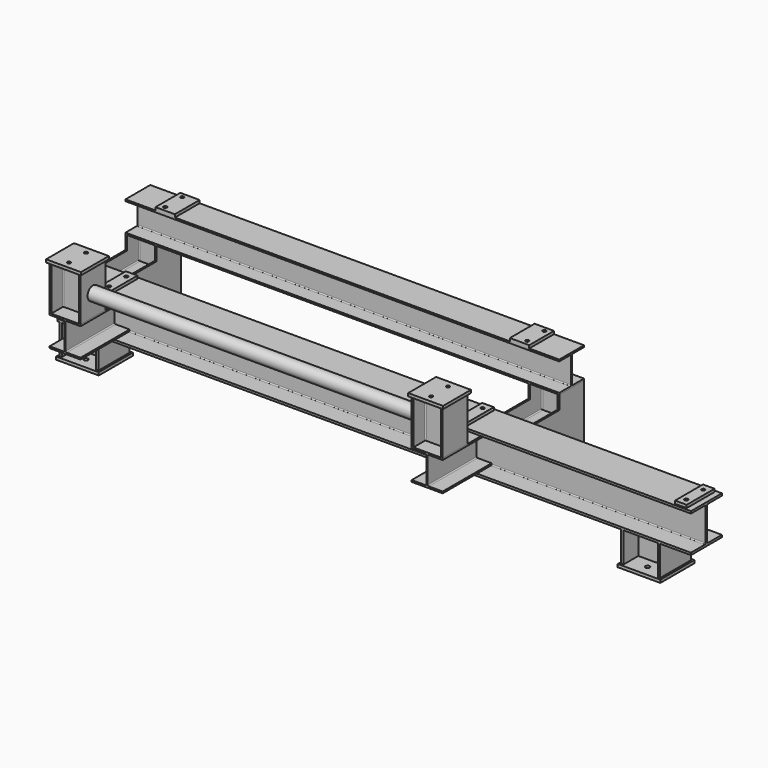
from build123d import *

# Parameters (mm, degrees)
F0_W      = 228.6
F0_H      = 228.6
F0_R      = 14.2875
F0_W_2    = 279.4
F0_H_2    = 279.4
F1_DEPTH  = 19.05
F3_DEPTH  = 504.952
F5_DEPTH  = 2844.8
F6_W      = 127
F6_H      = 203.2
F6_R      = 11.1125
F7_DEPTH  = 19.05
F9_DEPTH  = 482.6
F12_DEPTH = 4152.9
F14_DEPTH = 198.374
F15_W     = 76.2
F15_H     = 228.6
F15_R     = 11.1125
F16_DEPTH = 19.05
F18_DEPTH = 401.574
F20_DEPTH = 292.1
F21_W     = 228.6
F21_H     = 228.6
F21_R     = 11.1125
F22_DEPTH = 19.05
F23_R     = 44.45
F23_R_2   = 38.9636
F24_DEPTH = 2171.7


with BuildPart() as f1:
    # F0 (on Top) → F1 (new body)
    with BuildSketch(Plane.XY):
        with Locations((-1320.8, 241.3)):
            Rectangle(F0_W, F0_H)
        with Locations((-1320.8, 171.45)):
            Circle(F0_R, mode=Mode.SUBTRACT)
        with Locations((-1320.8, 311.15)):
            Circle(F0_R, mode=Mode.SUBTRACT)
        with Locations((1320.8, 241.3)):
            Rectangle(F0_W, F0_H)
        with Locations((1320.8, 171.45)):
            Circle(F0_R, mode=Mode.SUBTRACT)
        with Locations((1320.8, 311.15)):
            Circle(F0_R, mode=Mode.SUBTRACT)
        with Locations((2362.2, -241.3)):
            Rectangle(F0_W_2, F0_H_2)
        with Locations((2362.2, -311.15)):
            Circle(F0_R, mode=Mode.SUBTRACT)
        with Locations((2362.2, -171.45)):
            Circle(F0_R, mode=Mode.SUBTRACT)
        with Locations((-1320.8, -241.3)):
            Rectangle(F0_W_2, F0_H_2)
        with Locations((-1320.8, -311.15)):
            Circle(F0_R, mode=Mode.SUBTRACT)
        with Locations((-1320.8, -171.45)):
            Circle(F0_R, mode=Mode.SUBTRACT)
    extrude(amount=F1_DEPTH)


with BuildPart() as f3:
    # F2 (on face) → F3 (new body)
    with BuildSketch(Plane.XY.offset(19.05)):
        with BuildLine():
            Line((-1411.351, 342.9), (-1422.4, 342.9))
            Line((-1422.4, 342.9), (-1422.4, 139.7))
            Line((-1422.4, 139.7), (-1411.351, 139.7))
            Line((-1411.351, 139.7), (-1411.351, 231.3305))
            ThreePointArc((-1411.351, 231.3305), (-1409.491128, 235.820628), (-1405.001, 237.6805))
            Line((-1405.001, 237.6805), (-1320.8, 237.6805))
            Line((-1320.8, 237.6805), (-1236.599, 237.6805))
            ThreePointArc((-1236.599, 237.6805), (-1232.108872, 235.820628), (-1230.249, 231.3305))
            Line((-1230.249, 231.3305), (-1230.249, 139.7))
            Line((-1230.249, 139.7), (-1219.2, 139.7))
            Line((-1219.2, 139.7), (-1219.2, 342.9))
            Line((-1219.2, 342.9), (-1230.249, 342.9))
            Line((-1230.249, 342.9), (-1230.249, 251.2695))
            ThreePointArc((-1230.249, 251.2695), (-1232.108872, 246.779372), (-1236.599, 244.9195))
            Line((-1236.599, 244.9195), (-1320.8, 244.9195))
            Line((-1320.8, 244.9195), (-1405.001, 244.9195))
            ThreePointArc((-1405.001, 244.9195), (-1409.491128, 246.779372), (-1411.351, 251.2695))
            Line((-1411.351, 251.2695), (-1411.351, 342.9))
        make_face()
        with BuildLine():
            Line((1411.351, 342.9), (1411.351, 251.2695))
            ThreePointArc((1411.351, 251.2695), (1409.491128, 246.779372), (1405.001, 244.9195))
            Line((1405.001, 244.9195), (1320.8, 244.9195))
            Line((1320.8, 244.9195), (1236.599, 244.9195))
            ThreePointArc((1236.599, 244.9195), (1232.108872, 246.779372), (1230.249, 251.2695))
            Line((1230.249, 251.2695), (1230.249, 342.9))
            Line((1230.249, 342.9), (1219.2, 342.9))
            Line((1219.2, 342.9), (1219.2, 139.7))
            Line((1219.2, 139.7), (1230.249, 139.7))
            Line((1230.249, 139.7), (1230.249, 231.3305))
            ThreePointArc((1230.249, 231.3305), (1232.108872, 235.820628), (1236.599, 237.6805))
            Line((1236.599, 237.6805), (1320.8, 237.6805))
            Line((1320.8, 237.6805), (1405.001, 237.6805))
            ThreePointArc((1405.001, 237.6805), (1409.491128, 235.820628), (1411.351, 231.3305))
            Line((1411.351, 231.3305), (1411.351, 139.7))
            Line((1411.351, 139.7), (1422.4, 139.7))
            Line((1422.4, 139.7), (1422.4, 342.9))
            Line((1422.4, 342.9), (1411.351, 342.9))
        make_face()
    extrude(amount=F3_DEPTH)

    # F8 (on face) → F9 (join)
    with BuildSketch(Plane.XZ.offset(-237.6805)):
        with BuildLine():
            Line((-1422.4, 434.848), (-1422.4, 231.648))
            Line((-1422.4, 231.648), (-1411.351, 231.648))
            Line((-1411.351, 231.648), (-1411.351, 328.803))
            ThreePointArc((-1411.351, 328.803), (-1410.979026, 329.701026), (-1410.081, 330.073))
            Line((-1410.081, 330.073), (-1320.8, 330.073))
            Line((-1320.8, 330.073), (-1231.519, 330.073))
            ThreePointArc((-1231.519, 330.073), (-1230.620974, 329.701026), (-1230.249, 328.803))
            Line((-1230.249, 328.803), (-1230.249, 231.648))
            Line((-1230.249, 231.648), (-1219.2, 231.648))
            Line((-1219.2, 231.648), (-1219.2, 434.848))
            Line((-1219.2, 434.848), (-1230.249, 434.848))
            Line((-1230.249, 434.848), (-1230.249, 342.773))
            ThreePointArc((-1230.249, 342.773), (-1232.108872, 338.282872), (-1236.599, 336.423))
            Line((-1236.599, 336.423), (-1320.8, 336.423))
            Line((-1320.8, 336.423), (-1405.001, 336.423))
            ThreePointArc((-1405.001, 336.423), (-1409.491128, 338.282872), (-1411.351, 342.773))
            Line((-1411.351, 342.773), (-1411.351, 434.848))
            Line((-1411.351, 434.848), (-1422.4, 434.848))
        make_face()
        with BuildLine():
            Line((1411.351, 434.848), (1411.351, 342.773))
            ThreePointArc((1411.351, 342.773), (1409.491128, 338.282872), (1405.001, 336.423))
            Line((1405.001, 336.423), (1320.8, 336.423))
            Line((1320.8, 336.423), (1236.599, 336.423))
            ThreePointArc((1236.599, 336.423), (1232.108872, 338.282872), (1230.249, 342.773))
            Line((1230.249, 342.773), (1230.249, 434.848))
            Line((1230.249, 434.848), (1219.2, 434.848))
            Line((1219.2, 434.848), (1219.2, 231.648))
            Line((1219.2, 231.648), (1230.249, 231.648))
            Line((1230.249, 231.648), (1230.249, 328.803))
            ThreePointArc((1230.249, 328.803), (1230.620974, 329.701026), (1231.519, 330.073))
            Line((1231.519, 330.073), (1320.8, 330.073))
            Line((1320.8, 330.073), (1410.081, 330.073))
            ThreePointArc((1410.081, 330.073), (1410.979026, 329.701026), (1411.351, 328.803))
            Line((1411.351, 328.803), (1411.351, 231.648))
            Line((1411.351, 231.648), (1422.4, 231.648))
            Line((1422.4, 231.648), (1422.4, 434.848))
            Line((1422.4, 434.848), (1411.351, 434.848))
        make_face()
    extrude(amount=F9_DEPTH)


with BuildPart() as f5:
    # F4 (on face) → F5 (new body, through all)
    with BuildSketch(Plane.YZ.offset(1422.4)):
        with BuildLine():
            Line((139.7, 535.051), (139.7, 524.002))
            Line((139.7, 524.002), (342.9, 524.002))
            Line((342.9, 524.002), (342.9, 535.051))
            Line((342.9, 535.051), (251.2695, 535.051))
            ThreePointArc((251.2695, 535.051), (246.779372, 536.910872), (244.9195, 541.401))
            Line((244.9195, 541.401), (244.9195, 709.803))
            ThreePointArc((244.9195, 709.803), (246.779372, 714.293128), (251.2695, 716.153))
            Line((251.2695, 716.153), (342.9, 716.153))
            Line((342.9, 716.153), (342.9, 727.202))
            Line((342.9, 727.202), (139.7, 727.202))
            Line((139.7, 727.202), (139.7, 716.153))
            Line((139.7, 716.153), (231.3305, 716.153))
            ThreePointArc((231.3305, 716.153), (235.820628, 714.293128), (237.6805, 709.803))
            Line((237.6805, 709.803), (237.6805, 541.401))
            ThreePointArc((237.6805, 541.401), (235.820628, 536.910872), (231.3305, 535.051))
            Line((231.3305, 535.051), (139.7, 535.051))
        make_face()
    extrude(amount=-F5_DEPTH)

    # F6 (on face) → F7 (join)
    with BuildSketch(Plane.XY.offset(727.202)):
        with Locations((1162.05, 241.3)):
            Rectangle(F6_W, F6_H)
        with Locations((1187.45, 171.45)):
            Circle(F6_R, mode=Mode.SUBTRACT)
        with Locations((1187.45, 311.15)):
            Circle(F6_R, mode=Mode.SUBTRACT)
        with Locations((-1162.05, 241.3)):
            Rectangle(F6_W, F6_H)
        with Locations((-1187.45, 171.45)):
            Circle(F6_R, mode=Mode.SUBTRACT)
        with Locations((-1187.45, 311.15)):
            Circle(F6_R, mode=Mode.SUBTRACT)
    extrude(amount=F7_DEPTH)


with BuildPart() as f12:
    # F11 (on offset) → F12 (new body)
    with BuildSketch(Plane.YZ.offset(2692.4)):
        with BuildLine():
            Line((-368.3, 231.648), (-368.3, 217.424))
            Line((-368.3, 217.424), (-114.3, 217.424))
            Line((-114.3, 217.424), (-114.3, 231.648))
            Line((-114.3, 231.648), (-228.6, 231.648))
            ThreePointArc((-228.6, 231.648), (-233.090128, 233.507872), (-234.95, 237.998))
            Line((-234.95, 237.998), (-234.95, 450.85))
            ThreePointArc((-234.95, 450.85), (-233.090128, 455.340128), (-228.6, 457.2))
            Line((-228.6, 457.2), (-114.3, 457.2))
            Line((-114.3, 457.2), (-114.3, 471.424))
            Line((-114.3, 471.424), (-368.3, 471.424))
            Line((-368.3, 471.424), (-368.3, 457.2))
            Line((-368.3, 457.2), (-254, 457.2))
            ThreePointArc((-254, 457.2), (-249.509872, 455.340128), (-247.65, 450.85))
            Line((-247.65, 450.85), (-247.65, 237.998))
            ThreePointArc((-247.65, 237.998), (-249.509872, 233.507872), (-254, 231.648))
            Line((-254, 231.648), (-368.3, 231.648))
        make_face()
    extrude(amount=-F12_DEPTH)

    # F15 (on face) → F16 (join)
    with BuildSketch(Plane.XY.offset(471.424)):
        with Locations((-1168.4, -241.3)):
            Rectangle(F15_W, F15_H)
        with Locations((-1168.4, -311.15)):
            Circle(F15_R, mode=Mode.SUBTRACT)
        with Locations((-1168.4, -171.45)):
            Circle(F15_R, mode=Mode.SUBTRACT)
        with Locations((1168.4, -241.3)):
            Rectangle(F15_W, F15_H)
        with Locations((1168.4, -311.15)):
            Circle(F15_R, mode=Mode.SUBTRACT)
        with Locations((1168.4, -171.45)):
            Circle(F15_R, mode=Mode.SUBTRACT)
        with Locations((2616.2, -241.3)):
            Rectangle(F15_W, F15_H)
        with Locations((2616.2, -311.15)):
            Circle(F15_R, mode=Mode.SUBTRACT)
        with Locations((2616.2, -171.45)):
            Circle(F15_R, mode=Mode.SUBTRACT)
    extrude(amount=F16_DEPTH)


with BuildPart() as f14:
    # F13 (on face) → F14 (new body)
    with BuildSketch(Plane.XY.offset(19.05)):
        Polygon((-1433.576, -114.3), (-1447.8, -114.3), (-1447.8, -368.3), (-1433.576, -368.3), (-1433.576, -245.618), (-1208.024, -245.618), (-1208.024, -368.3), (-1193.8, -368.3), (-1193.8, -114.3), (-1208.024, -114.3), (-1208.024, -236.982), (-1433.576, -236.982), align=None)
        Polygon((2474.976, -368.3), (2489.2, -368.3), (2489.2, -114.3), (2474.976, -114.3), (2474.976, -236.982), (2249.424, -236.982), (2249.424, -114.3), (2235.2, -114.3), (2235.2, -368.3), (2249.424, -368.3), (2249.424, -245.618), (2474.976, -245.618), align=None)
    extrude(amount=F14_DEPTH)


with BuildPart() as f18:
    # F17 (on face) → F18 (new body)
    with BuildSketch(Plane.XZ.offset(247.65)):
        with BuildLine():
            Line((-1085.85, 435.102), (-1289.05, 435.102))
            Line((-1289.05, 435.102), (-1289.05, 424.053))
            Line((-1289.05, 424.053), (-1197.356, 424.053))
            ThreePointArc((-1197.356, 424.053), (-1192.865872, 422.193128), (-1191.006, 417.703))
            Line((-1191.006, 417.703), (-1191.006, 249.301))
            ThreePointArc((-1191.006, 249.301), (-1192.865872, 244.810872), (-1197.356, 242.951))
            Line((-1197.356, 242.951), (-1289.05, 242.951))
            Line((-1289.05, 242.951), (-1289.05, 231.902))
            Line((-1289.05, 231.902), (-1085.85, 231.902))
            Line((-1085.85, 231.902), (-1085.85, 242.951))
            Line((-1085.85, 242.951), (-1177.544, 242.951))
            ThreePointArc((-1177.544, 242.951), (-1182.034128, 244.810872), (-1183.894, 249.301))
            Line((-1183.894, 249.301), (-1183.894, 417.703))
            ThreePointArc((-1183.894, 417.703), (-1182.034128, 422.193128), (-1177.544, 424.053))
            Line((-1177.544, 424.053), (-1085.85, 424.053))
            Line((-1085.85, 424.053), (-1085.85, 435.102))
        make_face()
        with BuildLine():
            Line((1085.85, 424.053), (1177.544, 424.053))
            ThreePointArc((1177.544, 424.053), (1182.034128, 422.193128), (1183.894, 417.703))
            Line((1183.894, 417.703), (1183.894, 249.301))
            ThreePointArc((1183.894, 249.301), (1182.034128, 244.810872), (1177.544, 242.951))
            Line((1177.544, 242.951), (1085.85, 242.951))
            Line((1085.85, 242.951), (1085.85, 231.902))
            Line((1085.85, 231.902), (1289.05, 231.902))
            Line((1289.05, 231.902), (1289.05, 242.951))
            Line((1289.05, 242.951), (1197.356, 242.951))
            ThreePointArc((1197.356, 242.951), (1192.865872, 244.810872), (1191.006, 249.301))
            Line((1191.006, 249.301), (1191.006, 417.703))
            ThreePointArc((1191.006, 417.703), (1192.865872, 422.193128), (1197.356, 424.053))
            Line((1197.356, 424.053), (1289.05, 424.053))
            Line((1289.05, 424.053), (1289.05, 435.102))
            Line((1289.05, 435.102), (1085.85, 435.102))
            Line((1085.85, 435.102), (1085.85, 424.053))
        make_face()
    extrude(amount=F18_DEPTH)


with BuildPart() as f20:
    # F19 (on face) → F20 (new body)
    with BuildSketch(Plane.XY.offset(435.102)):
        with BuildLine():
            Line((-1289.05, -446.024), (-1289.05, -649.224))
            Line((-1289.05, -649.224), (-1278.001, -649.224))
            Line((-1278.001, -649.224), (-1278.001, -557.53))
            ThreePointArc((-1278.001, -557.53), (-1276.141128, -553.039872), (-1271.651, -551.18))
            Line((-1271.651, -551.18), (-1103.249, -551.18))
            ThreePointArc((-1103.249, -551.18), (-1098.758872, -553.039872), (-1096.899, -557.53))
            Line((-1096.899, -557.53), (-1096.899, -649.224))
            Line((-1096.899, -649.224), (-1085.85, -649.224))
            Line((-1085.85, -649.224), (-1085.85, -446.024))
            Line((-1085.85, -446.024), (-1096.899, -446.024))
            Line((-1096.899, -446.024), (-1096.899, -537.718))
            ThreePointArc((-1096.899, -537.718), (-1098.758872, -542.208128), (-1103.249, -544.068))
            Line((-1103.249, -544.068), (-1271.651, -544.068))
            ThreePointArc((-1271.651, -544.068), (-1276.141128, -542.208128), (-1278.001, -537.718))
            Line((-1278.001, -537.718), (-1278.001, -446.024))
            Line((-1278.001, -446.024), (-1289.05, -446.024))
        make_face()
        with BuildLine():
            Line((1103.249, -551.18), (1271.651, -551.18))
            ThreePointArc((1271.651, -551.18), (1276.141128, -553.039872), (1278.001, -557.53))
            Line((1278.001, -557.53), (1278.001, -649.224))
            Line((1278.001, -649.224), (1289.05, -649.224))
            Line((1289.05, -649.224), (1289.05, -446.024))
            Line((1289.05, -446.024), (1278.001, -446.024))
            Line((1278.001, -446.024), (1278.001, -537.718))
            ThreePointArc((1278.001, -537.718), (1276.141128, -542.208128), (1271.651, -544.068))
            Line((1271.651, -544.068), (1103.249, -544.068))
            ThreePointArc((1103.249, -544.068), (1098.758872, -542.208128), (1096.899, -537.718))
            Line((1096.899, -537.718), (1096.899, -446.024))
            Line((1096.899, -446.024), (1085.85, -446.024))
            Line((1085.85, -446.024), (1085.85, -649.224))
            Line((1085.85, -649.224), (1096.899, -649.224))
            Line((1096.899, -649.224), (1096.899, -557.53))
            ThreePointArc((1096.899, -557.53), (1098.758872, -553.039872), (1103.249, -551.18))
        make_face()
    extrude(amount=F20_DEPTH)


with BuildPart() as f22:
    # F21 (on face) → F22 (new body)
    with BuildSketch(Plane.XY.offset(727.202)):
        with Locations((-1187.45, -547.624)):
            Rectangle(F21_W, F21_H)
        with Locations((-1187.45, -617.474)):
            Circle(F21_R, mode=Mode.SUBTRACT)
        with Locations((-1187.45, -477.774)):
            Circle(F21_R, mode=Mode.SUBTRACT)
        with Locations((1187.45, -547.624)):
            Rectangle(F21_W, F21_H)
        with Locations((1187.45, -617.474)):
            Circle(F21_R, mode=Mode.SUBTRACT)
        with Locations((1187.45, -477.774)):
            Circle(F21_R, mode=Mode.SUBTRACT)
    extrude(amount=F22_DEPTH)


with BuildPart() as f24:
    # F23 (on face) → F24 (new body)
    with BuildSketch(Plane.YZ.offset(-1085.85)):
        with Locations((-547.624, 574.802)):
            Circle(F23_R)
        with Locations((-547.624, 574.802)):
            Circle(F23_R_2, mode=Mode.SUBTRACT)
    extrude(amount=F24_DEPTH)


solid = Compound([f1.part, f3.part, f5.part, f12.part, f14.part, f18.part, f20.part, f22.part, f24.part])
